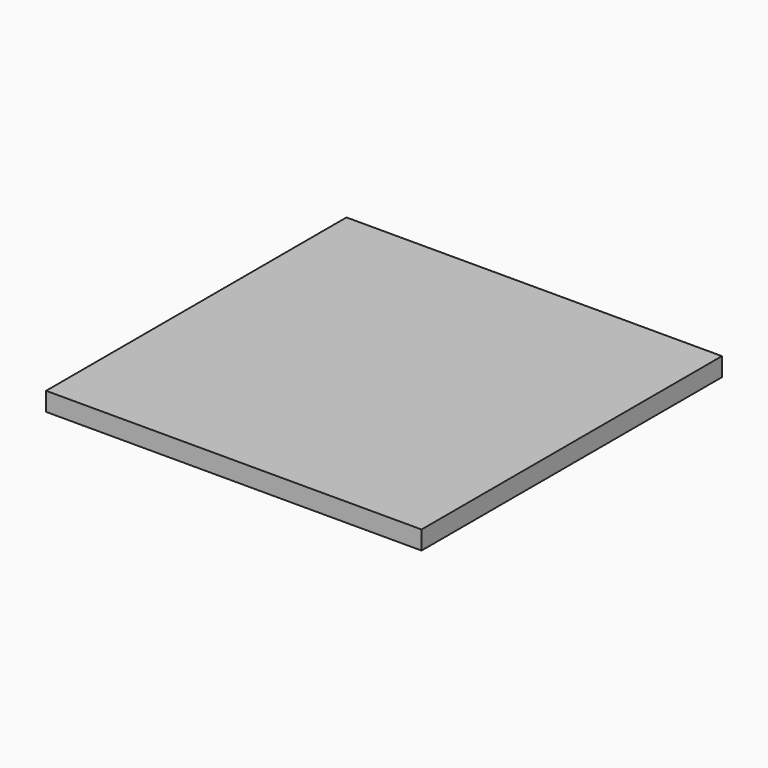
from build123d import *

# Parameters (mm, degrees)
F0_W     = 60.033172369
F0_H     = 71.0732936859
F1_DEPTH = 1.27
F2_DEPTH = 45.42028
F3_DEPTH = 34.3789


with BuildPart() as f1:
    # F0 (on Top) → F1 (new body)
    with BuildSketch(Plane.XY):
        with Locations((-20.9914129227, 21.3353335857)):
            Rectangle(F0_W, F0_H)
    extrude(amount=F1_DEPTH)

    # F2 (cut): a face of the model
    f2_faces = [f1.faces().sort_by_distance(p)[0] for p in [
        (-20.9914129227, -14.2013132572, 0.635),
    ]]
    extrude(f2_faces, amount=-F2_DEPTH, mode=Mode.SUBTRACT)

    # F3 (cut): a face of the model
    f3_faces = [f1.faces().sort_by_distance(p)[0] for p in [
        (9.0251732618, 44.0454735857, 0.635),
    ]]
    extrude(f3_faces, amount=-F3_DEPTH, mode=Mode.SUBTRACT)


solid = f1.part
